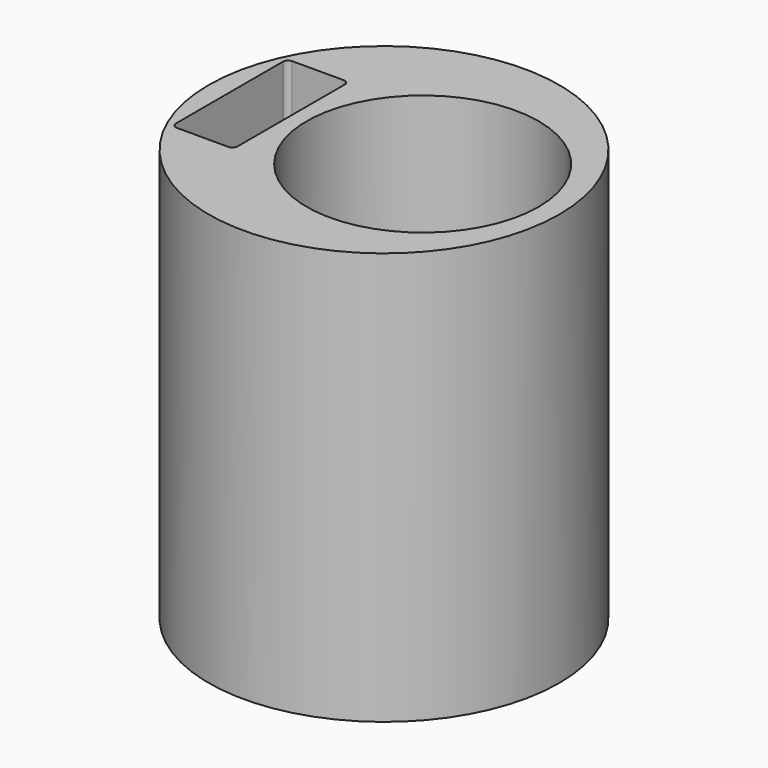
from build123d import *

# Parameters (mm, degrees)
F0_R     = 17
F0_R_2   = 11.25
F1_DEPTH = 40


with BuildPart() as f1:
    # F0 (on Top) → F1 (new body)
    with BuildSketch(Plane.XY):
        Circle(F0_R)
        with BuildLine():
            ThreePointArc((-9, -6.5), (-9.146447, -6.853553), (-9.5, -7))
            Line((-9.5, -7), (-14.5, -7))
            ThreePointArc((-14.5, -7), (-14.853553, -6.853553), (-15, -6.5))
            Line((-15, -6.5), (-15, 6.5))
            ThreePointArc((-15, 6.5), (-14.853553, 6.853553), (-14.5, 7))
            Line((-14.5, 7), (-9.5, 7))
            ThreePointArc((-9.5, 7), (-9.146447, 6.853553), (-9, 6.5))
            Line((-9, 6.5), (-9, -6.5))
        make_face(mode=Mode.SUBTRACT)
        with Locations((3.75, 0)):
            Circle(F0_R_2, mode=Mode.SUBTRACT)
    extrude(amount=F1_DEPTH)


solid = f1.part
